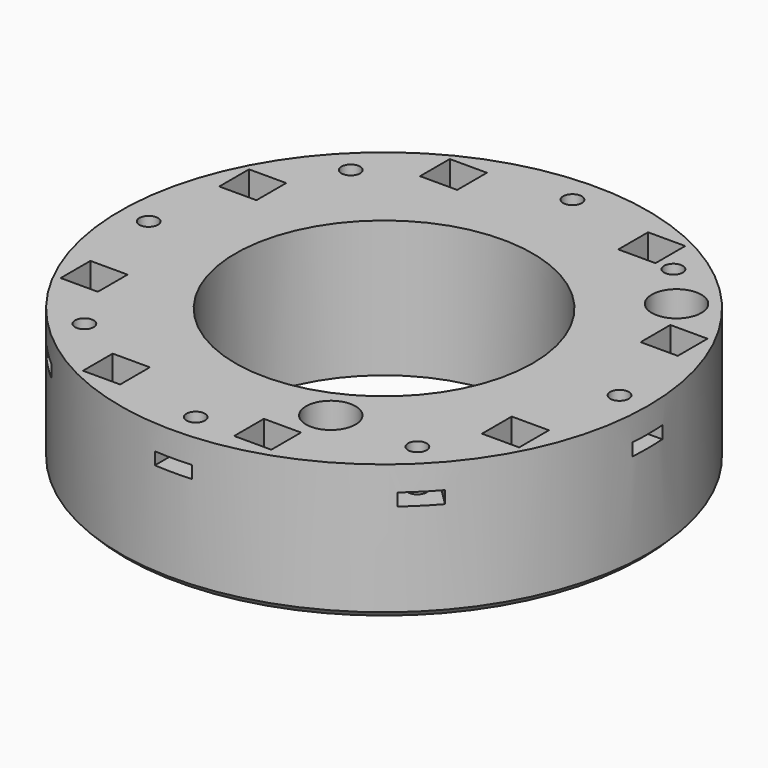
from build123d import *

# Parameters (mm, degrees)
BOX1028_W                    = 6
BOX1028_H                    = 8
BOX1028_DEPTH                = 2
BOX1028_PLACEMENT_ANGLE      = 45
BOX1029_W                    = 6
BOX1029_H                    = 8
BOX1029_DEPTH                = 2
BOX1031_W                    = 6
BOX1031_H                    = 8
BOX1031_DEPTH                = 2
BOX1031_PLACEMENT_ANGLE      = 145
BOX1032_W                    = 6
BOX1032_H                    = 8
BOX1032_DEPTH                = 2
BOX1033_W                    = 6
BOX1033_H                    = 8
BOX1033_DEPTH                = 2
BOX1033_PLACEMENT_ANGLE      = 225
BOX1034_W                    = 6
BOX1034_H                    = 8
BOX1034_DEPTH                = 2
BOX1035_W                    = 6
BOX1035_H                    = 8
BOX1035_DEPTH                = 2
BOX1035_PLACEMENT_ANGLE      = 45
BOX1027_W                    = 6
BOX1027_H                    = 8
BOX1027_DEPTH                = 2
CYLINDER2226_R               = 1.5
CYLINDER2226_DEPTH           = 100
CYLINDER2226_PLACEMENT_ANGLE = 225
CYLINDER2227_R               = 1.5
CYLINDER2227_DEPTH           = 100
CYLINDER2225_R               = 1.5
CYLINDER2225_DEPTH           = 100
CYLINDER2228_R               = 1.5
CYLINDER2228_DEPTH           = 100
CYLINDER2228_PLACEMENT_ANGLE = 45
CYLINDER2221_R               = 1.5
CYLINDER2221_DEPTH           = 100
CYLINDER2222_R               = 1.5
CYLINDER2222_DEPTH           = 100
CYLINDER2222_PLACEMENT_ANGLE = 45
CYLINDER2224_R               = 1.5
CYLINDER2224_DEPTH           = 100
CYLINDER2224_PLACEMENT_ANGLE = 145
CYLINDER2223_R               = 1.5
CYLINDER2223_DEPTH           = 100
CYLINDER1447_R               = 4
CYLINDER1447_DEPTH           = 40
CYLINDER1448_R               = 4
CYLINDER1448_DEPTH           = 40
CYLINDER1449_R               = 4
CYLINDER1449_DEPTH           = 40
CYLINDER1450_R               = 4
CYLINDER1450_DEPTH           = 40
CYLINDER1451_R               = 4
CYLINDER1451_DEPTH           = 40
CYLINDER1452_R               = 4
CYLINDER1452_DEPTH           = 40
CYLINDER1453_R               = 4
CYLINDER1453_DEPTH           = 40
CYLINDER1446_R               = 4
CYLINDER1446_DEPTH           = 40
CYLINDER1631_R               = 1.5
CYLINDER1631_DEPTH           = 100
CYLINDER1632_R               = 1.5
CYLINDER1632_DEPTH           = 100
CYLINDER1633_R               = 1.5
CYLINDER1633_DEPTH           = 100
CYLINDER1634_R               = 1.5
CYLINDER1634_DEPTH           = 100
CYLINDER1635_R               = 1.5
CYLINDER1635_DEPTH           = 100
CYLINDER1636_R               = 1.5
CYLINDER1636_DEPTH           = 100
CYLINDER1637_R               = 1.5
CYLINDER1637_DEPTH           = 100
CYLINDER1630_R               = 1.5
CYLINDER1630_DEPTH           = 100
BOX1014_W                    = 6
BOX1014_H                    = 6
BOX1014_DEPTH                = 20
BOX1015_W                    = 6
BOX1015_H                    = 6
BOX1015_DEPTH                = 20
BOX1012_W                    = 6
BOX1012_H                    = 6
BOX1012_DEPTH                = 20
BOX1016_W                    = 6
BOX1016_H                    = 6
BOX1016_DEPTH                = 20
BOX1017_W                    = 6
BOX1017_H                    = 6
BOX1017_DEPTH                = 20
BOX1013_W                    = 6
BOX1013_H                    = 6
BOX1013_DEPTH                = 20
BOX1018_W                    = 6
BOX1018_H                    = 6
BOX1018_DEPTH                = 20
BOX1011_W                    = 6
BOX1011_H                    = 6
BOX1011_DEPTH                = 20
TUBE_R                       = 42.6
TUBE_R_2                     = 24
TUBE_DEPTH                   = 22
CHAMFER_SIZE                 = 1


with BuildPart() as krychle1028:
    # Box1028 → Box1028 (new body)
    with BuildSketch(Plane.XY):
        with Locations((3, 4)):
            Rectangle(BOX1028_W, BOX1028_H)
    extrude(amount=BOX1028_DEPTH)


with BuildPart() as krychle1028_1:
    # Box1028 placement: moved
    add(krychle1028.part.moved(Location((28.284271, -32.526912, 5))).rotate(Axis((28.284271, -32.526912, 5), (0, 0, 1)), BOX1028_PLACEMENT_ANGLE))


with BuildPart() as krychle1029:
    # Box1029 → Box1029 (new body)
    with BuildSketch(Plane(origin=(43, -3, 5), x_dir=(0, 1, 0), z_dir=(0, 0, 1))):
        with Locations((3, 4)):
            Rectangle(BOX1029_W, BOX1029_H)
    extrude(amount=BOX1029_DEPTH)


with BuildPart() as krychle1031:
    # Box1031 → Box1031 (new body)
    with BuildSketch(Plane.XY):
        with Locations((3, 4)):
            Rectangle(BOX1031_W, BOX1031_H)
    extrude(amount=BOX1031_DEPTH)


with BuildPart() as krychle1031_1:
    # Box1031 placement: moved
    add(krychle1031.part.moved(Location((27.121243, 33.502809, 5))).rotate(Axis((27.121243, 33.502809, 5), (0, 0, 1)), BOX1031_PLACEMENT_ANGLE))


with BuildPart() as krychle1032:
    # Box1032 → Box1032 (new body)
    with BuildSketch(Plane(origin=(3, 43, 5), x_dir=(-1, 0, 0), z_dir=(0, 0, 1))):
        with Locations((3, 4)):
            Rectangle(BOX1032_W, BOX1032_H)
    extrude(amount=BOX1032_DEPTH)


with BuildPart() as krychle1033:
    # Box1033 → Box1033 (new body)
    with BuildSketch(Plane.XY):
        with Locations((3, 4)):
            Rectangle(BOX1033_W, BOX1033_H)
    extrude(amount=BOX1033_DEPTH)


with BuildPart() as krychle1033_1:
    # Box1033 placement: moved
    add(krychle1033.part.moved(Location((-28.284271, 32.526912, 5))).rotate(Axis((-28.284271, 32.526912, 5), (0, 0, 1)), BOX1033_PLACEMENT_ANGLE))


with BuildPart() as krychle1034:
    # Box1034 → Box1034 (new body)
    with BuildSketch(Plane(origin=(-43, 3, 5), x_dir=(0, -1, 0), z_dir=(0, 0, 1))):
        with Locations((3, 4)):
            Rectangle(BOX1034_W, BOX1034_H)
    extrude(amount=BOX1034_DEPTH)


with BuildPart() as krychle1035:
    # Box1035 → Box1035 (new body)
    with BuildSketch(Plane.XY):
        with Locations((3, 4)):
            Rectangle(BOX1035_W, BOX1035_H)
    extrude(amount=BOX1035_DEPTH)


with BuildPart() as krychle1035_1:
    # Box1035 placement: moved
    add(krychle1035.part.moved(Location((-32.526912, -28.284271, 5))).rotate(Axis((-32.526912, -28.284271, 5), (0, 0, -1)), BOX1035_PLACEMENT_ANGLE))


with BuildPart() as compound1121:
    # Box1027 → Box1027 (new body)
    with BuildSketch(Plane(origin=(-3, -43, 5), x_dir=(1, 0, 0), z_dir=(0, 0, 1))):
        with Locations((3, 4)):
            Rectangle(BOX1027_W, BOX1027_H)
    extrude(amount=BOX1027_DEPTH)

    # Compound1121: union Krychle1028, Krychle1029, Krychle1031, Krychle1032, Krychle1033, Krychle1034, Krychle1035
    add(krychle1028_1.part)
    add(krychle1029.part)
    add(krychle1031_1.part)
    add(krychle1032.part)
    add(krychle1033_1.part)
    add(krychle1034.part)
    add(krychle1035_1.part)


with BuildPart() as compound1121_1:
    # Compound1121 placement: moved
    add(compound1121.part.moved(Location((0, 0, 16))))


with BuildPart() as obj1:
    # Cylinder2226 → Cylinder2226 (new body)
    with BuildSketch(Plane.XY):
        Circle(CYLINDER2226_R)
    extrude(amount=CYLINDER2226_DEPTH)


with BuildPart() as obj1_1:
    # Cylinder2226 placement: moved
    add(obj1.part.moved(Location((-26.870058, 26.870058, 0))).rotate(Axis((-26.870058, 26.870058, 0), (0, 0, 1)), CYLINDER2226_PLACEMENT_ANGLE))


with BuildPart() as obj2:
    # Cylinder2227 → Cylinder2227 (new body)
    with BuildSketch(Plane(origin=(-38, 0, 0), x_dir=(0, -1, 0), z_dir=(0, 0, 1))):
        Circle(CYLINDER2227_R)
    extrude(amount=CYLINDER2227_DEPTH)


with BuildPart() as obj3:
    # Cylinder2225 → Cylinder2225 (new body)
    with BuildSketch(Plane(origin=(0, 38, 0), x_dir=(-1, 0, 0), z_dir=(0, 0, 1))):
        Circle(CYLINDER2225_R)
    extrude(amount=CYLINDER2225_DEPTH)


with BuildPart() as obj4:
    # Cylinder2228 → Cylinder2228 (new body)
    with BuildSketch(Plane.XY):
        Circle(CYLINDER2228_R)
    extrude(amount=CYLINDER2228_DEPTH)


with BuildPart() as obj4_1:
    # Cylinder2228 placement: moved
    add(obj4.part.moved(Location((-26.870058, -26.870058, 0))).rotate(Axis((-26.870058, -26.870058, 0), (0, 0, -1)), CYLINDER2228_PLACEMENT_ANGLE))


with BuildPart() as obj5:
    # Cylinder2221 → Cylinder2221 (new body)
    with BuildSketch(Plane(origin=(0, -38, 0), x_dir=(1, 0, 0), z_dir=(0, 0, 1))):
        Circle(CYLINDER2221_R)
    extrude(amount=CYLINDER2221_DEPTH)


with BuildPart() as obj6:
    # Cylinder2222 → Cylinder2222 (new body)
    with BuildSketch(Plane.XY):
        Circle(CYLINDER2222_R)
    extrude(amount=CYLINDER2222_DEPTH)


with BuildPart() as obj6_1:
    # Cylinder2222 placement: moved
    add(obj6.part.moved(Location((26.870058, -26.870058, 0))).rotate(Axis((26.870058, -26.870058, 0), (0, 0, 1)), CYLINDER2222_PLACEMENT_ANGLE))


with BuildPart() as obj7:
    # Cylinder2224 → Cylinder2224 (new body)
    with BuildSketch(Plane.XY):
        Circle(CYLINDER2224_R)
    extrude(amount=CYLINDER2224_DEPTH)


with BuildPart() as obj7_1:
    # Cylinder2224 placement: moved
    add(obj7.part.moved(Location((21.795905, 31.127778, 0))).rotate(Axis((21.795905, 31.127778, 0), (0, 0, 1)), CYLINDER2224_PLACEMENT_ANGLE))


with BuildPart() as compound1122:
    # Cylinder2223 → Cylinder2223 (new body)
    with BuildSketch(Plane(origin=(38, 0, 0), x_dir=(0, 1, 0), z_dir=(0, 0, 1))):
        Circle(CYLINDER2223_R)
    extrude(amount=CYLINDER2223_DEPTH)

    # Compound1122: union obj1, obj2, obj3, obj4, obj5, obj6, obj7
    add(obj1_1.part)
    add(obj2.part)
    add(obj3.part)
    add(obj4_1.part)
    add(obj5.part)
    add(obj6_1.part)
    add(obj7_1.part)


with BuildPart() as obj8:
    # Cylinder1447 → Cylinder1447 (new body)
    with BuildSketch(Plane(origin=(103, 12, -20), x_dir=(1, 0, 0), z_dir=(0, 0, 1))):
        Circle(CYLINDER1447_R)
    extrude(amount=CYLINDER1447_DEPTH)


with BuildPart() as obj9:
    # Cylinder1448 → Cylinder1448 (new body)
    with BuildSketch(Plane(origin=(76, 24, -18), x_dir=(1, 0, 0), z_dir=(0, 0, 1))):
        Circle(CYLINDER1448_R)
    extrude(amount=CYLINDER1448_DEPTH)


with BuildPart() as obj10:
    # Cylinder1449 → Cylinder1449 (new body)
    with BuildSketch(Plane(origin=(91, -27, -18), x_dir=(1, 0, 0), z_dir=(0, 0, 1))):
        Circle(CYLINDER1449_R)
    extrude(amount=CYLINDER1449_DEPTH)


with BuildPart() as obj11:
    # Cylinder1450 → Cylinder1450 (new body)
    with BuildSketch(Plane(origin=(13, -27, -18), x_dir=(1, 0, 0), z_dir=(0, 0, 1))):
        Circle(CYLINDER1450_R)
    extrude(amount=CYLINDER1450_DEPTH)


with BuildPart() as obj12:
    # Cylinder1451 → Cylinder1451 (new body)
    with BuildSketch(Plane(origin=(28, 24, -18), x_dir=(1, 0, 0), z_dir=(0, 0, 1))):
        Circle(CYLINDER1451_R)
    extrude(amount=CYLINDER1451_DEPTH)


with BuildPart() as obj13:
    # Cylinder1452 → Cylinder1452 (new body)
    with BuildSketch(Plane(origin=(1, -12, -18), x_dir=(1, 0, 0), z_dir=(0, 0, 1))):
        Circle(CYLINDER1452_R)
    extrude(amount=CYLINDER1452_DEPTH)


with BuildPart() as obj14:
    # Cylinder1453 → Cylinder1453 (new body)
    with BuildSketch(Plane(origin=(1, 12, -18), x_dir=(1, 0, 0), z_dir=(0, 0, 1))):
        Circle(CYLINDER1453_R)
    extrude(amount=CYLINDER1453_DEPTH)


with BuildPart() as obj15:
    # Cylinder1446 → Cylinder1446 (new body)
    with BuildSketch(Plane(origin=(103, -12, -20), x_dir=(1, 0, 0), z_dir=(0, 0, 1))):
        Circle(CYLINDER1446_R)
    extrude(amount=CYLINDER1446_DEPTH)

    # Compound664: union obj8, obj9, obj10, obj11, obj12, obj13, obj14
    add(obj8.part)
    add(obj9.part)
    add(obj10.part)
    add(obj11.part)
    add(obj12.part)
    add(obj13.part)
    add(obj14.part)


with BuildPart() as obj15_1:
    # Compound664 placement: moved
    add(obj15.part.moved(Location((0, 0, 20))))


with BuildPart() as obj16:
    # Cylinder1631 → Cylinder1631 (new body)
    with BuildSketch(Plane(origin=(-34, -16, -60), x_dir=(1, 0, 0), z_dir=(0, 0, 1))):
        Circle(CYLINDER1631_R)
    extrude(amount=CYLINDER1631_DEPTH)


with BuildPart() as obj17:
    # Cylinder1632 → Cylinder1632 (new body)
    with BuildSketch(Plane(origin=(34, -16, -60), x_dir=(1, 0, 0), z_dir=(0, 0, 1))):
        Circle(CYLINDER1632_R)
    extrude(amount=CYLINDER1632_DEPTH)


with BuildPart() as obj18:
    # Cylinder1633 → Cylinder1633 (new body)
    with BuildSketch(Plane(origin=(34, 16, -60), x_dir=(1, 0, 0), z_dir=(0, 0, 1))):
        Circle(CYLINDER1633_R)
    extrude(amount=CYLINDER1633_DEPTH)


with BuildPart() as obj19:
    # Cylinder1634 → Cylinder1634 (new body)
    with BuildSketch(Plane(origin=(16, 34, -60), x_dir=(1, 0, 0), z_dir=(0, 0, 1))):
        Circle(CYLINDER1634_R)
    extrude(amount=CYLINDER1634_DEPTH)


with BuildPart() as obj20:
    # Cylinder1635 → Cylinder1635 (new body)
    with BuildSketch(Plane(origin=(10, -36, -60), x_dir=(1, 0, 0), z_dir=(0, 0, 1))):
        Circle(CYLINDER1635_R)
    extrude(amount=CYLINDER1635_DEPTH)


with BuildPart() as obj21:
    # Cylinder1636 → Cylinder1636 (new body)
    with BuildSketch(Plane(origin=(-16, -34, -60), x_dir=(1, 0, 0), z_dir=(0, 0, 1))):
        Circle(CYLINDER1636_R)
    extrude(amount=CYLINDER1636_DEPTH)


with BuildPart() as obj22:
    # Cylinder1637 → Cylinder1637 (new body)
    with BuildSketch(Plane(origin=(-16, 34, -60), x_dir=(1, 0, 0), z_dir=(0, 0, 1))):
        Circle(CYLINDER1637_R)
    extrude(amount=CYLINDER1637_DEPTH)


with BuildPart() as obj23:
    # Cylinder1630 → Cylinder1630 (new body)
    with BuildSketch(Plane(origin=(-34, 16, -60), x_dir=(1, 0, 0), z_dir=(0, 0, 1))):
        Circle(CYLINDER1630_R)
    extrude(amount=CYLINDER1630_DEPTH)

    # Compound928: union obj16, obj17, obj18, obj19, obj20, obj21, obj22
    add(obj16.part)
    add(obj17.part)
    add(obj18.part)
    add(obj19.part)
    add(obj20.part)
    add(obj21.part)
    add(obj22.part)


with BuildPart() as obj23_1:
    # Compound928 placement: moved
    add(obj23.part.moved(Location((0, 0, 40))))


with BuildPart() as krychle1014:
    # Box1014 → Box1014 (new body)
    with BuildSketch(Plane(origin=(-19, 31, 0), x_dir=(1, 0, 0), z_dir=(0, 0, 1))):
        with Locations((3, 3)):
            Rectangle(BOX1014_W, BOX1014_H)
    extrude(amount=BOX1014_DEPTH)


with BuildPart() as krychle1015:
    # Box1015 → Box1015 (new body)
    with BuildSketch(Plane(origin=(-19, -37, 0), x_dir=(1, 0, 0), z_dir=(0, 0, 1))):
        with Locations((3, 3)):
            Rectangle(BOX1015_W, BOX1015_H)
    extrude(amount=BOX1015_DEPTH)


with BuildPart() as krychle1012:
    # Box1012 → Box1012 (new body)
    with BuildSketch(Plane(origin=(7, -39, 0), x_dir=(1, 0, 0), z_dir=(0, 0, 1))):
        with Locations((3, 3)):
            Rectangle(BOX1012_W, BOX1012_H)
    extrude(amount=BOX1012_DEPTH)


with BuildPart() as krychle1016:
    # Box1016 → Box1016 (new body)
    with BuildSketch(Plane(origin=(31, 13, 0), x_dir=(1, 0, 0), z_dir=(0, 0, 1))):
        with Locations((3, 3)):
            Rectangle(BOX1016_W, BOX1016_H)
    extrude(amount=BOX1016_DEPTH)


with BuildPart() as krychle1017:
    # Box1017 → Box1017 (new body)
    with BuildSketch(Plane(origin=(31, -19, 0), x_dir=(1, 0, 0), z_dir=(0, 0, 1))):
        with Locations((3, 3)):
            Rectangle(BOX1017_W, BOX1017_H)
    extrude(amount=BOX1017_DEPTH)


with BuildPart() as krychle1013:
    # Box1013 → Box1013 (new body)
    with BuildSketch(Plane(origin=(-37, 13, 0), x_dir=(1, 0, 0), z_dir=(0, 0, 1))):
        with Locations((3, 3)):
            Rectangle(BOX1013_W, BOX1013_H)
    extrude(amount=BOX1013_DEPTH)


with BuildPart() as krychle1018:
    # Box1018 → Box1018 (new body)
    with BuildSketch(Plane(origin=(-37, -19, 0), x_dir=(1, 0, 0), z_dir=(0, 0, 1))):
        with Locations((3, 3)):
            Rectangle(BOX1018_W, BOX1018_H)
    extrude(amount=BOX1018_DEPTH)


with BuildPart() as compound1118:
    # Box1011 → Box1011 (new body)
    with BuildSketch(Plane(origin=(13, 31, 0), x_dir=(1, 0, 0), z_dir=(0, 0, 1))):
        with Locations((3, 3)):
            Rectangle(BOX1011_W, BOX1011_H)
    extrude(amount=BOX1011_DEPTH)

    # Compound1118: union Krychle1014, Krychle1015, Krychle1012, Krychle1016, Krychle1017, Krychle1013, Krychle1018
    add(krychle1014.part)
    add(krychle1015.part)
    add(krychle1012.part)
    add(krychle1016.part)
    add(krychle1017.part)
    add(krychle1013.part)
    add(krychle1018.part)


with BuildPart() as compound1118_1:
    # Compound1118 placement: moved
    add(compound1118.part.moved(Location((0, 0, 22))))


with BuildPart() as cut712:
    # Tube → Tube (new body)
    with BuildSketch(Plane.XY.offset(5)):
        Circle(TUBE_R)
        Circle(TUBE_R_2, mode=Mode.SUBTRACT)
    extrude(amount=TUBE_DEPTH)

    # Cut706: cut Compound1118
    add(compound1118_1.part, mode=Mode.SUBTRACT)

    # Chamfer
    chamfer_edges = [cut712.edges().sort_by_distance(p)[0] for p in [
        (-42.6, 0, 5),
    ]]
    chamfer(chamfer_edges, length=CHAMFER_SIZE)

    # Cut707: cut obj23
    add(obj23_1.part, mode=Mode.SUBTRACT)

    # Cut709: cut obj15
    add(obj15_1.part, mode=Mode.SUBTRACT)

    # Cut710: cut Compound1122
    add(compound1122.part, mode=Mode.SUBTRACT)

    # Cut712: cut Compound1121
    add(compound1121_1.part, mode=Mode.SUBTRACT)


solid = cut712.part
